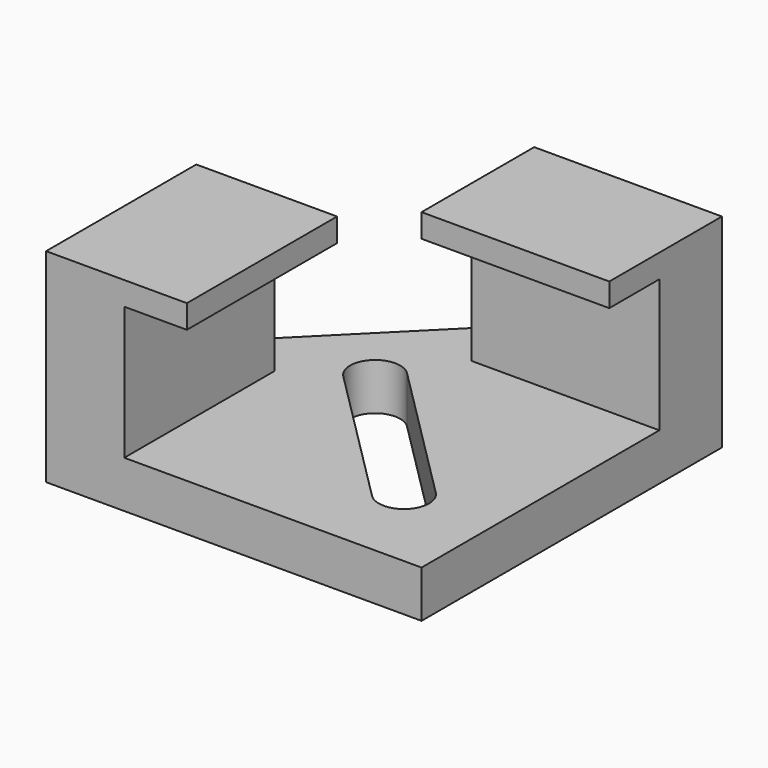
from build123d import *

# Parameters (mm, degrees)
F1_DEPTH = 3
F0_W     = 5
F0_H     = 12
F0_W_2   = 12
F0_H_2   = 5
F2_DEPTH = 13
F4_W     = 3.9998013438
F4_H     = 12
F4_W_2   = 12
F4_H_2   = 4
F5_DEPTH = 1.5


with BuildPart() as f1:
    # F0 (on Top) → F1 (new body)
    with BuildSketch(Plane.XY):
        Polygon((0, 7), (0, 12), (-12, 0), (-7, 0), (-7, -12), (12, -12), (12, 7), align=None)
        with BuildLine():
            ThreePointArc((-3.9597979746, 1.6970562748), (-3.9597979746, 3.9597979746), (-1.6970562748, 3.9597979746))
            Line((-1.6970562748, 3.9597979746), (7.4953318806, -5.2325901808))
            ThreePointArc((7.4953318806, -5.2325901808), (7.4953318806, -7.4953318806), (5.2325901808, -7.4953318806))
            Line((5.2325901808, -7.4953318806), (-3.9597979746, 1.6970562748))
        make_face(mode=Mode.SUBTRACT)
    extrude(amount=F1_DEPTH)

    # F0 (on Top) → F2 (join)
    with BuildSketch(Plane.XY):
        with Locations((-9.5, -6)):
            Rectangle(F0_W, F0_H)
        with Locations((6, 9.5)):
            Rectangle(F0_W_2, F0_H_2)
    extrude(amount=F2_DEPTH)

    # F4 (on offset) → F5 (join)
    with BuildSketch(Plane.XY.offset(13)):
        with Locations((-5.0000993281, -6)):
            Rectangle(F4_W, F4_H)
        with Locations((6, 5)):
            Rectangle(F4_W_2, F4_H_2)
    extrude(amount=-F5_DEPTH)


solid = f1.part
